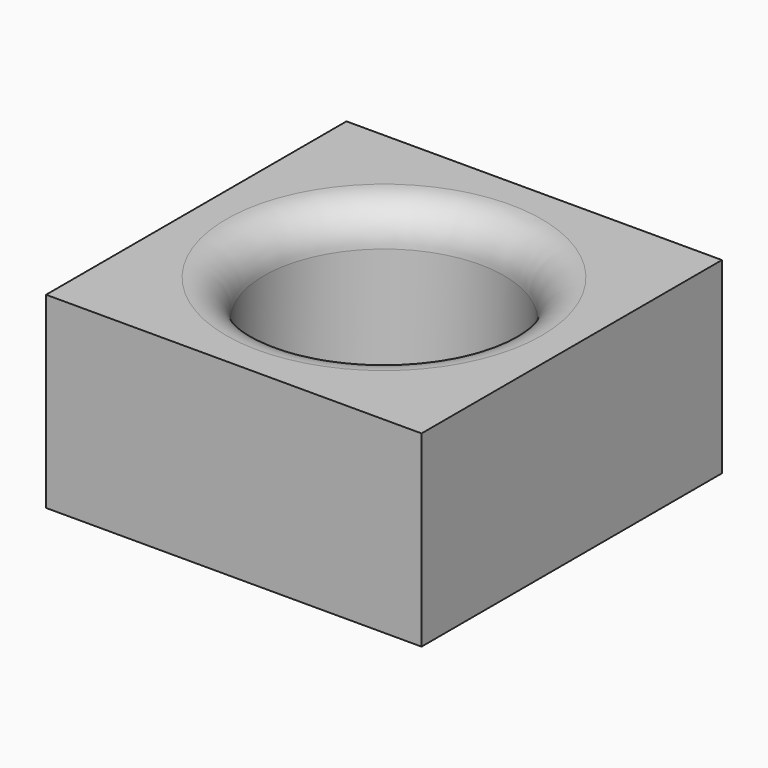
from build123d import *

# Parameters (mm, degrees)
SKETCH_W    = 10
SKETCH_H    = 10
SKETCH_R    = 3.2
PAD_DEPTH   = 5
FILLET_R    = 1
FILLET001_R = 1


with BuildPart() as part:
    # Sketch → Pad (new body)
    with BuildSketch(Plane.XY):
        Rectangle(SKETCH_W, SKETCH_H)
        Circle(SKETCH_R, mode=Mode.SUBTRACT)
    extrude(amount=PAD_DEPTH)

    # Fillet
    fillet_edges = [part.edges().sort_by_distance(p)[0] for p in [
        (-3.2, 0, 0),
    ]]
    fillet(fillet_edges, radius=FILLET_R)

    # Fillet001
    fillet001_edges = [part.edges().sort_by_distance(p)[0] for p in [
        (-3.2, 0, 5),
    ]]
    fillet(fillet001_edges, radius=FILLET001_R)


solid = part.part
